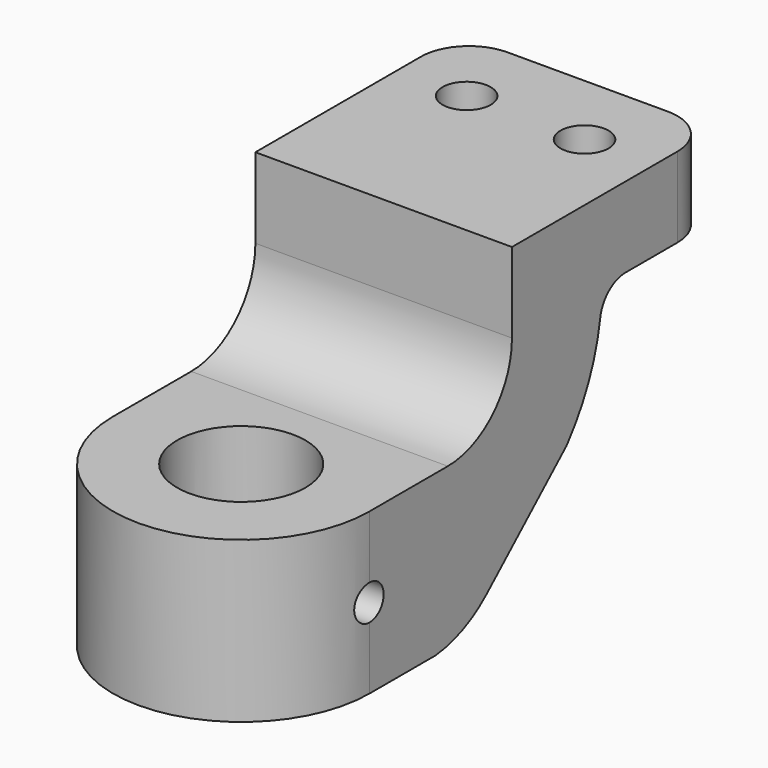
from build123d import *

# Parameters (mm, degrees)
F0_R     = 4
F0_R_2   = 1.5
F1_DEPTH = 20
F3_R     = 1.1
F4_DEPTH = 16.001


with BuildPart() as f1:
    # F0 (on Top) → F1 (new body)
    with BuildSketch(Plane.XY):
        with BuildLine():
            ThreePointArc((-8, 0), (0, -8), (8, 0))
            Line((8, 0), (8, 24))
            ThreePointArc((8, 24), (7.12132, 26.12132), (5, 27))
            Line((5, 27), (-5, 27))
            ThreePointArc((-5, 27), (-7.12132, 26.12132), (-8, 24))
            Line((-8, 24), (-8, 0))
        make_face()
        Circle(F0_R, mode=Mode.SUBTRACT)
        with Locations((-3.675823, 22.163428)):
            Circle(F0_R_2, mode=Mode.SUBTRACT)
        with Locations((3.675823, 22.163428)):
            Circle(F0_R_2, mode=Mode.SUBTRACT)
    extrude(amount=F1_DEPTH)

    # F3 (on face) → F4 (cut, through all)
    with BuildSketch(Plane(origin=(-8, 0, 0), x_dir=(0, -1, 0), z_dir=(-1, 0, 0))):
        with BuildLine():
            Line((15.480949, 34.118096), (-11.102321, 34.118096))
            Line((-11.102321, 34.118096), (-11.102321, 15))
            ThreePointArc((-11.102321, 15), (-9.637855, 11.464466), (-6.102321, 10))
            Line((-6.102321, 10), (15.473341, 10))
            Line((15.473341, 10), (15.480949, 34.118096))
        make_face()
        with BuildLine():
            Line((-19.958727, 15), (-48.31529, 15))
            Line((-48.31529, 15), (-48.31529, 0))
            Line((-48.31529, 0), (-48.31529, -8.176547))
            Line((-48.31529, -8.176547), (-5.153973, -8.176547))
            Line((-5.153973, -8.176547), (-5.153973, 0))
            ThreePointArc((-5.153973, 0), (-7.286992, 0.559089), (-9.138177, 1.757198))
            Line((-9.138177, 1.757198), (-15.357077, 7.361316))
            ThreePointArc((-15.357077, 7.361316), (-17.07554, 10.143206), (-17.97924, 13.285714))
            ThreePointArc((-17.97924, 13.285714), (-18.64942, 14.511858), (-19.958727, 15))
        make_face()
        with Locations((0, 5)):
            Circle(F3_R)
    extrude(amount=-F4_DEPTH, mode=Mode.SUBTRACT)


solid = f1.part
